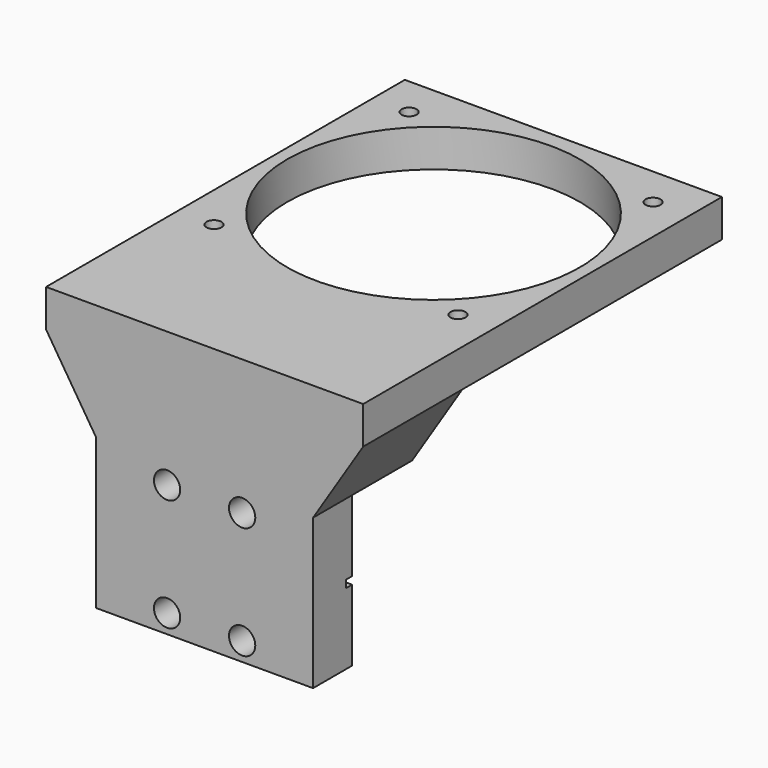
from build123d import *

# Parameters (mm, degrees)
SKETCH010_R     = 1.75
PAD005_DEPTH    = 6.5
PAD006_DEPTH    = 10
SKETCH012_R     = 3
POCKET004_DEPTH = 14.45
SKETCH013_W     = 42.25
SKETCH013_H     = 43.25
SKETCH013_R     = 19.5
SKETCH013_R_2   = 1
PAD007_DEPTH    = 5
SKETCH054_W     = 13.95
SKETCH054_H     = 1
POCKET023_DEPTH = 1


with BuildPart() as part:
    # Sketch010 → Pad005 (new body)
    with BuildSketch(Plane.XZ):
        Polygon((14.45, 10), (14.45, -10), (-14.45, -10), (-14.45, 10), (-21.125, 20.5), (-21.125, 25.5), (21.125, 25.5), (21.125, 20.5), align=None)
        with Locations((-5, 7.5)):
            Circle(SKETCH010_R, mode=Mode.SUBTRACT)
        with Locations((5, 7.5)):
            Circle(SKETCH010_R, mode=Mode.SUBTRACT)
        with Locations((-5, -7.5)):
            Circle(SKETCH010_R, mode=Mode.SUBTRACT)
        with Locations((5, -7.5)):
            Circle(SKETCH010_R, mode=Mode.SUBTRACT)
    extrude(amount=PAD005_DEPTH)

    # Sketch011 → Pad006 (join)
    with BuildSketch(Plane.XZ):
        Polygon((-21.125, 25.5), (21.125, 25.5), (21.125, 20.5), (14.45, 10), (-14.45, 10), (-21.125, 20.5), align=None)
    extrude(amount=-PAD006_DEPTH)

    # Sketch012 → Pocket004 (cut, symmetric)
    with BuildSketch(Plane.YZ):
        with Locations((5, -14.5)):
            Circle(SKETCH012_R)
    extrude(amount=POCKET004_DEPTH, both=True, mode=Mode.SUBTRACT)

    # Sketch013 (on Face9 of Pocket004) → Pad007 (join)
    with BuildSketch(Plane(origin=(0, 0, 25.5), x_dir=(-1, 0, 0), z_dir=(0, 0, 1))):
        with Locations((0, -31.625)):
            Rectangle(SKETCH013_W, SKETCH013_H)
        with Locations((0, -31.625)):
            Circle(SKETCH013_R, mode=Mode.SUBTRACT)
        with Locations((-16.25, -15.375)):
            Circle(SKETCH013_R_2, mode=Mode.SUBTRACT)
        with Locations((16.25, -15.375)):
            Circle(SKETCH013_R_2, mode=Mode.SUBTRACT)
        with Locations((16.25, -47.875)):
            Circle(SKETCH013_R_2, mode=Mode.SUBTRACT)
        with Locations((-16.25, -47.875)):
            Circle(SKETCH013_R_2, mode=Mode.SUBTRACT)
    extrude(amount=-PAD007_DEPTH)

    # Sketch054 → Pocket023 (cut)
    with BuildSketch(Plane.XZ):
        with Locations((-7.475, 0)):
            Rectangle(SKETCH054_W, SKETCH054_H)
        with Locations((7.475, 0)):
            Rectangle(SKETCH054_W, SKETCH054_H)
    extrude(amount=POCKET023_DEPTH, mode=Mode.SUBTRACT)


with BuildPart() as part_1:
    # Body003 placement: moved
    add(part.part.moved(Location((-30.55, -3.5, 0))))


solid = part_1.part
